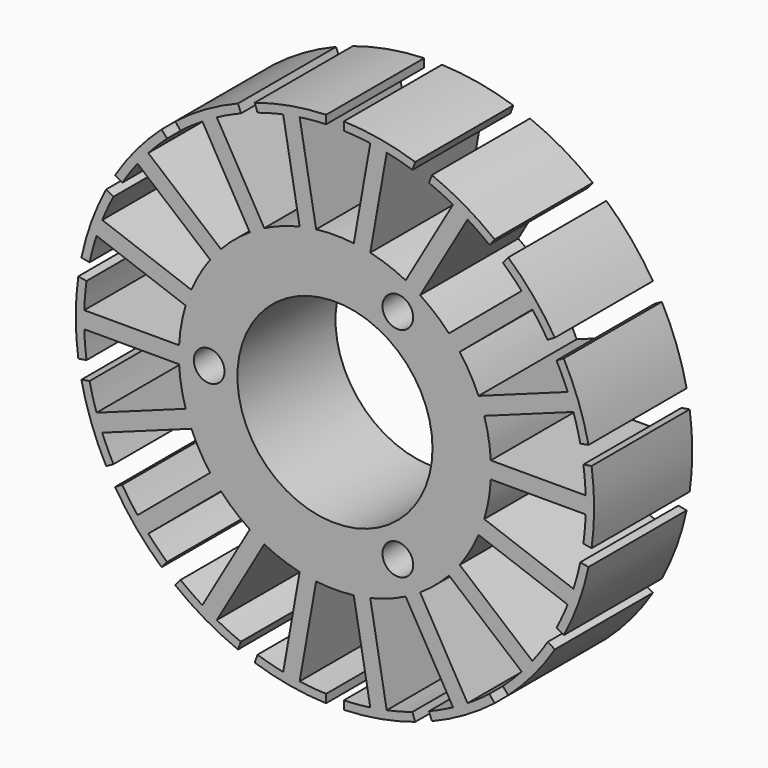
from build123d import *

# Parameters (mm, degrees)
F0_R     = 2.75
F0_R_2   = 17.5
F1_DEPTH = 11


with BuildPart() as f1:
    # F0 (on Front) → F1 (new body, symmetric)
    with BuildSketch(Plane.XZ):
        with BuildLine():
            Line((-44.563859, 6.25), (-46.043458, 6.5))
            ThreePointArc((-46.043458, 6.5), (-46.5, 0), (-46.043458, -6.5))
            Line((-46.043458, -6.5), (-44.563859, -6.25))
            ThreePointArc((-44.563859, -6.25), (-44.832378, -3.880449), (-44.974993, -1.5))
            Line((-44.974993, -1.5), (-27.959793, -1.5))
            ThreePointArc((-27.959793, -1.5), (-27.574617, -4.862149), (-26.786641, -8.153273))
            Line((-26.786641, -8.153273), (-42.775699, -13.972815))
            ThreePointArc((-42.775699, -13.972815), (-43.455846, -11.687147), (-44.013955, -9.368658))
            Line((-44.013955, -9.368658), (-45.489828, -9.639788))
            ThreePointArc((-45.489828, -9.639788), (-43.695707, -15.903937), (-41.043567, -21.855792))
            Line((-41.043567, -21.855792), (-39.738703, -21.114816))
            ThreePointArc((-39.738703, -21.114816), (-40.801463, -18.980005), (-41.749639, -16.791892))
            Line((-41.749639, -16.791892), (-25.760581, -10.972351))
            ThreePointArc((-25.760581, -10.972351), (-24.248711, -14), (-22.382625, -16.823141))
            Line((-22.382625, -16.823141), (-35.417025, -27.760302))
            ThreePointArc((-35.417025, -27.760302), (-36.837899, -25.845101), (-38.155319, -23.857318))
            Line((-38.155319, -23.857318), (-39.449454, -24.616875))
            ThreePointArc((-39.449454, -24.616875), (-35.621067, -29.889624), (-31.093216, -34.575453))
            Line((-31.093216, -34.575453), (-30.120474, -33.432874))
            ThreePointArc((-30.120474, -33.432874), (-31.84929, -31.790293), (-33.488662, -30.058435))
            Line((-33.488662, -30.058435), (-20.454262, -19.121275))
            ThreePointArc((-20.454262, -19.121275), (-17.998053, -21.449244), (-15.278934, -23.463891))
            Line((-15.278934, -23.463891), (-23.786535, -38.199486))
            ThreePointArc((-23.786535, -38.199486), (-25.776756, -36.885754), (-27.694588, -35.468434))
            Line((-27.694588, -35.468434), (-28.650894, -36.624804))
            ThreePointArc((-28.650894, -36.624804), (-23.25, -40.270181), (-17.392564, -43.124804))
            Line((-17.392564, -43.124804), (-16.869271, -41.718434))
            ThreePointArc((-16.869271, -41.718434), (-19.055622, -40.766203), (-21.188459, -39.699486))
            Line((-21.188459, -39.699486), (-12.680858, -24.963891))
            ThreePointArc((-12.680858, -24.963891), (-9.576564, -26.311393), (-6.332379, -27.274548))
            Line((-6.332379, -27.274548), (-9.287037, -44.03125))
            ThreePointArc((-9.287037, -44.03125), (-11.606557, -43.477441), (-13.893481, -42.801532))
            Line((-13.893481, -42.801532), (-14.396613, -44.215241))
            ThreePointArc((-14.396613, -44.215241), (-8.07464, -45.79356), (-1.594112, -46.472667))
            Line((-1.594112, -46.472667), (-1.583385, -44.972135))
            ThreePointArc((-1.583385, -44.972135), (-3.963565, -44.825106), (-6.332614, -44.552194))
            Line((-6.332614, -44.552194), (-3.377955, -27.795493))
            ThreePointArc((-3.377955, -27.795493), (0, -28), (3.377955, -27.795493))
            Line((3.377955, -27.795493), (6.332614, -44.552194))
            ThreePointArc((6.332614, -44.552194), (3.963565, -44.825106), (1.583384, -44.972135))
            Line((1.583384, -44.972135), (1.594112, -46.472667))
            ThreePointArc((1.594112, -46.472667), (8.07464, -45.793561), (14.396613, -44.215241))
            Line((14.396613, -44.215241), (13.893481, -42.801532))
            ThreePointArc((13.893481, -42.801532), (11.606557, -43.477441), (9.287037, -44.03125))
            Line((9.287037, -44.03125), (6.332379, -27.274548))
            ThreePointArc((6.332379, -27.274548), (9.576564, -26.311393), (12.680858, -24.963891))
            Line((12.680858, -24.963891), (21.188458, -39.699487))
            ThreePointArc((21.188458, -39.699487), (19.055622, -40.766203), (16.86927, -41.718434))
            Line((16.86927, -41.718434), (17.392564, -43.124804))
            ThreePointArc((17.392564, -43.124804), (23.25, -40.270181), (28.650894, -36.624804))
            Line((28.650894, -36.624804), (27.694588, -35.468434))
            ThreePointArc((27.694588, -35.468434), (25.776756, -36.885754), (23.786535, -38.199487))
            Line((23.786535, -38.199487), (15.278934, -23.463891))
            ThreePointArc((15.278934, -23.463891), (17.998053, -21.449244), (20.454262, -19.121275))
            Line((20.454262, -19.121275), (33.488662, -30.058435))
            ThreePointArc((33.488662, -30.058435), (31.84929, -31.790293), (30.120474, -33.432874))
            Line((30.120474, -33.432874), (31.093215, -34.575453))
            ThreePointArc((31.093215, -34.575453), (35.621067, -29.889624), (39.449454, -24.616875))
            Line((39.449454, -24.616875), (38.155319, -23.857319))
            ThreePointArc((38.155319, -23.857319), (36.837898, -25.845101), (35.417025, -27.760302))
            Line((35.417025, -27.760302), (22.382625, -16.823142))
            ThreePointArc((22.382625, -16.823142), (24.248711, -14), (25.760581, -10.972351))
            Line((25.760581, -10.972351), (41.749639, -16.791893))
            ThreePointArc((41.749639, -16.791893), (40.801463, -18.980006), (39.738703, -21.114816))
            Line((39.738703, -21.114816), (41.043566, -21.855792))
            ThreePointArc((41.043566, -21.855792), (43.695707, -15.903937), (45.489828, -9.639788))
            Line((45.489828, -9.639788), (44.013955, -9.368659))
            ThreePointArc((44.013955, -9.368659), (43.455846, -11.687147), (42.775699, -13.972815))
            Line((42.775699, -13.972815), (26.786641, -8.153273))
            ThreePointArc((26.786641, -8.153273), (27.574617, -4.862149), (27.959793, -1.5))
            Line((27.959793, -1.5), (44.974993, -1.5))
            ThreePointArc((44.974993, -1.5), (44.832378, -3.880449), (44.563859, -6.25))
            Line((44.563859, -6.25), (46.043458, -6.5))
            ThreePointArc((46.043458, -6.5), (46.5, 0), (46.043458, 6.5))
            Line((46.043458, 6.5), (44.563859, 6.25))
            ThreePointArc((44.563859, 6.25), (44.832378, 3.880449), (44.974993, 1.5))
            Line((44.974993, 1.5), (27.959793, 1.5))
            ThreePointArc((27.959793, 1.5), (27.574617, 4.862149), (26.786641, 8.153273))
            Line((26.786641, 8.153273), (42.775699, 13.972815))
            ThreePointArc((42.775699, 13.972815), (43.455846, 11.687147), (44.013955, 9.368658))
            Line((44.013955, 9.368658), (45.489828, 9.639788))
            ThreePointArc((45.489828, 9.639788), (43.695707, 15.903937), (41.043567, 21.855792))
            Line((41.043567, 21.855792), (39.738703, 21.114816))
            ThreePointArc((39.738703, 21.114816), (40.801463, 18.980005), (41.749639, 16.791892))
            Line((41.749639, 16.791892), (25.760581, 10.972351))
            ThreePointArc((25.760581, 10.972351), (24.248711, 14), (22.382625, 16.823142))
            Line((22.382625, 16.823142), (35.417025, 27.760302))
            ThreePointArc((35.417025, 27.760302), (36.837898, 25.845101), (38.155319, 23.857318))
            Line((38.155319, 23.857318), (39.449454, 24.616875))
            ThreePointArc((39.449454, 24.616875), (35.621067, 29.889624), (31.093216, 34.575453))
            Line((31.093216, 34.575453), (30.120474, 33.432874))
            ThreePointArc((30.120474, 33.432874), (31.84929, 31.790293), (33.488662, 30.058435))
            Line((33.488662, 30.058435), (20.454262, 19.121275))
            ThreePointArc((20.454262, 19.121275), (17.998053, 21.449244), (15.278934, 23.463891))
            Line((15.278934, 23.463891), (23.786535, 38.199486))
            ThreePointArc((23.786535, 38.199486), (25.776756, 36.885754), (27.694588, 35.468434))
            Line((27.694588, 35.468434), (28.650894, 36.624804))
            ThreePointArc((28.650894, 36.624804), (23.25, 40.270181), (17.392564, 43.124804))
            Line((17.392564, 43.124804), (16.869271, 41.718434))
            ThreePointArc((16.869271, 41.718434), (19.055622, 40.766203), (21.188458, 39.699486))
            Line((21.188458, 39.699486), (12.680858, 24.963891))
            ThreePointArc((12.680858, 24.963891), (9.576564, 26.311393), (6.332379, 27.274548))
            Line((6.332379, 27.274548), (9.287037, 44.03125))
            ThreePointArc((9.287037, 44.03125), (11.606557, 43.477441), (13.893481, 42.801532))
            Line((13.893481, 42.801532), (14.396613, 44.215241))
            ThreePointArc((14.396613, 44.215241), (8.07464, 45.793561), (1.594112, 46.472667))
            Line((1.594112, 46.472667), (1.583384, 44.972135))
            ThreePointArc((1.583384, 44.972135), (3.963565, 44.825106), (6.332614, 44.552194))
            Line((6.332614, 44.552194), (3.377955, 27.795493))
            ThreePointArc((3.377955, 27.795493), (0, 28), (-3.377955, 27.795493))
            Line((-3.377955, 27.795493), (-6.332614, 44.552194))
            ThreePointArc((-6.332614, 44.552194), (-3.963565, 44.825106), (-1.583384, 44.972135))
            Line((-1.583384, 44.972135), (-1.594112, 46.472667))
            ThreePointArc((-1.594112, 46.472667), (-8.07464, 45.793561), (-14.396613, 44.215241))
            Line((-14.396613, 44.215241), (-13.893481, 42.801532))
            ThreePointArc((-13.893481, 42.801532), (-11.606557, 43.477441), (-9.287037, 44.03125))
            Line((-9.287037, 44.03125), (-6.332379, 27.274548))
            ThreePointArc((-6.332379, 27.274548), (-9.576564, 26.311393), (-12.680858, 24.963891))
            Line((-12.680858, 24.963891), (-21.188458, 39.699487))
            ThreePointArc((-21.188458, 39.699487), (-19.055622, 40.766203), (-16.869271, 41.718434))
            Line((-16.869271, 41.718434), (-17.392564, 43.124804))
            ThreePointArc((-17.392564, 43.124804), (-23.25, 40.270181), (-28.650894, 36.624804))
            Line((-28.650894, 36.624804), (-27.694588, 35.468434))
            ThreePointArc((-27.694588, 35.468434), (-25.776756, 36.885754), (-23.786535, 38.199487))
            Line((-23.786535, 38.199487), (-15.278934, 23.463891))
            ThreePointArc((-15.278934, 23.463891), (-17.998053, 21.449244), (-20.454262, 19.121275))
            Line((-20.454262, 19.121275), (-33.488662, 30.058435))
            ThreePointArc((-33.488662, 30.058435), (-31.84929, 31.790293), (-30.120474, 33.432874))
            Line((-30.120474, 33.432874), (-31.093215, 34.575453))
            ThreePointArc((-31.093215, 34.575453), (-35.621067, 29.889624), (-39.449454, 24.616875))
            Line((-39.449454, 24.616875), (-38.155319, 23.857318))
            ThreePointArc((-38.155319, 23.857318), (-36.837898, 25.845101), (-35.417025, 27.760302))
            Line((-35.417025, 27.760302), (-22.382625, 16.823142))
            ThreePointArc((-22.382625, 16.823142), (-24.248711, 14), (-25.760581, 10.972351))
            Line((-25.760581, 10.972351), (-41.749639, 16.791893))
            ThreePointArc((-41.749639, 16.791893), (-40.801463, 18.980005), (-39.738703, 21.114816))
            Line((-39.738703, 21.114816), (-41.043567, 21.855792))
            ThreePointArc((-41.043567, 21.855792), (-43.695707, 15.903937), (-45.489828, 9.639788))
            Line((-45.489828, 9.639788), (-44.013955, 9.368658))
            ThreePointArc((-44.013955, 9.368658), (-43.455846, 11.687147), (-42.775699, 13.972815))
            Line((-42.775699, 13.972815), (-26.786641, 8.153273))
            ThreePointArc((-26.786641, 8.153273), (-27.574617, 4.862149), (-27.959793, 1.5))
            Line((-27.959793, 1.5), (-44.974993, 1.5))
            ThreePointArc((-44.974993, 1.5), (-44.832378, 3.880449), (-44.563859, 6.25))
        make_face()
        with Locations((11.282527, -19.54191)):
            Circle(F0_R, mode=Mode.SUBTRACT)
        with Locations((-22.565054, 0)):
            Circle(F0_R, mode=Mode.SUBTRACT)
        Circle(F0_R_2, mode=Mode.SUBTRACT)
        with Locations((11.282527, 19.54191)):
            Circle(F0_R, mode=Mode.SUBTRACT)
    extrude(amount=F1_DEPTH, both=True)


solid = f1.part
